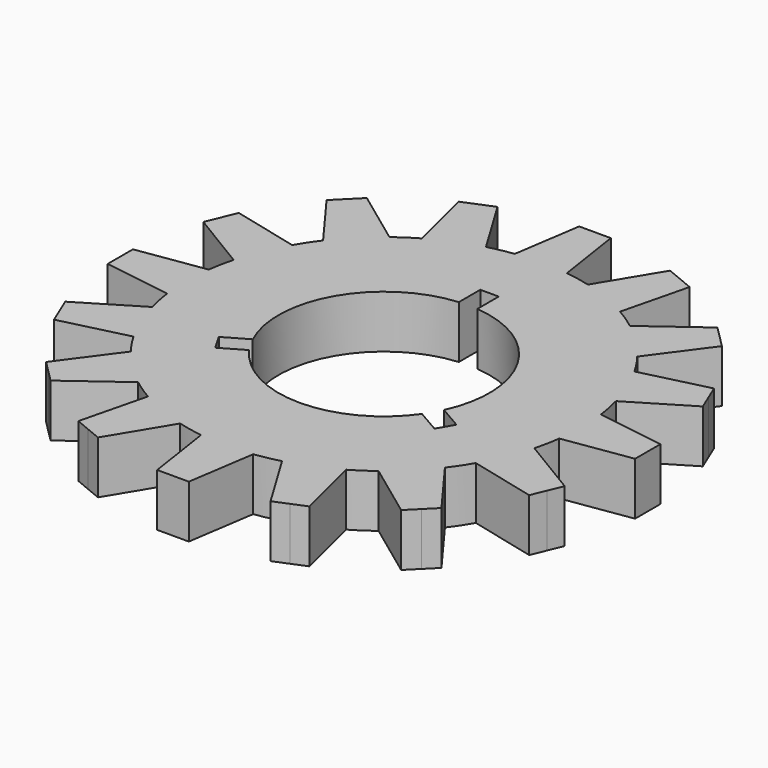
from build123d import *

# Parameters (mm, degrees)
F1_DEPTH = 2.54


with BuildPart() as f1:
    # F0 (on Top) → F1 (new body)
    with BuildSketch(Plane.XY):
        with BuildLine():
            Line((-9.5190714883, 8.4414407538), (-7.564357968, 5.788446556))
            ThreePointArc((-7.564357968, 5.788446556), (-7.9197480572, 5.2918064695), (-8.242581769, 4.7734129071))
            Line((-8.242581769, 4.7734129071), (-11.4416652874, 5.5640757948))
            Line((-11.4416652874, 5.5640757948), (-11.7332700629, 4.860079591))
            Line((-11.7332700629, 4.860079591), (-12.0248748384, 4.1560833873))
            Line((-12.0248748384, 4.1560833873), (-9.2036980994, 2.4530728273))
            ThreePointArc((-9.2036980994, 2.4530728273), (-9.3419797958, 1.8582353172), (-9.4418586268, 1.2557590022))
            Line((-9.4418586268, 1.2557590022), (-12.7, 0.762))
            Line((-12.7, 0.762), (-12.7, 0))
            Line((-12.7, 0), (-12.7, -0.762))
            Line((-12.7, -0.762), (-9.4418586268, -1.2557590022))
            ThreePointArc((-9.4418586268, -1.2557590022), (-9.3419797958, -1.8582353172), (-9.2036980994, -2.4530728273))
            Line((-9.2036980994, -2.4530728273), (-12.0248748384, -4.1560833873))
            Line((-12.0248748384, -4.1560833873), (-11.7332700629, -4.860079591))
            Line((-11.7332700629, -4.860079591), (-11.4416652874, -5.5640757948))
            Line((-11.4416652874, -5.5640757948), (-8.242581769, -4.7734129071))
            ThreePointArc((-8.242581769, -4.7734129071), (-7.9197480572, -5.2918064695), (-7.564357968, -5.788446556))
            Line((-7.564357968, -5.788446556), (-9.5190714883, -8.4414407538))
            Line((-9.5190714883, -8.4414407538), (-8.9802561211, -8.9802561211))
            Line((-8.9802561211, -8.9802561211), (-8.4414407538, -9.5190714883))
            Line((-8.4414407538, -9.5190714883), (-5.788446556, -7.564357968))
            ThreePointArc((-5.788446556, -7.564357968), (-5.2918064695, -7.9197480572), (-4.7734129071, -8.242581769))
            Line((-4.7734129071, -8.242581769), (-5.5640757948, -11.4416652874))
            Line((-5.5640757948, -11.4416652874), (-4.860079591, -11.7332700629))
            Line((-4.860079591, -11.7332700629), (-4.1560833873, -12.0248748384))
            Line((-4.1560833873, -12.0248748384), (-2.4530728273, -9.2036980994))
            ThreePointArc((-2.4530728273, -9.2036980994), (-1.8582353172, -9.3419797958), (-1.2557590022, -9.4418586268))
            Line((-1.2557590022, -9.4418586268), (-0.762, -12.7))
            Line((-0.762, -12.7), (0, -12.7))
            Line((0, -12.7), (0.762, -12.7))
            Line((0.762, -12.7), (1.2557590022, -9.4418586268))
            ThreePointArc((1.2557590022, -9.4418586268), (1.8582353172, -9.3419797958), (2.4530728273, -9.2036980994))
            Line((2.4530728273, -9.2036980994), (4.1560833873, -12.0248748384))
            Line((4.1560833873, -12.0248748384), (4.860079591, -11.7332700629))
            Line((4.860079591, -11.7332700629), (5.5640757948, -11.4416652874))
            Line((5.5640757948, -11.4416652874), (4.7734129071, -8.242581769))
            ThreePointArc((4.7734129071, -8.242581769), (5.2918064695, -7.9197480572), (5.788446556, -7.564357968))
            Line((5.788446556, -7.564357968), (8.4414407538, -9.5190714883))
            Line((8.4414407538, -9.5190714883), (8.9802561211, -8.9802561211))
            Line((8.9802561211, -8.9802561211), (9.5190714883, -8.4414407538))
            Line((9.5190714883, -8.4414407538), (7.564357968, -5.788446556))
            ThreePointArc((7.564357968, -5.788446556), (7.9197480572, -5.2918064695), (8.242581769, -4.7734129071))
            Line((8.242581769, -4.7734129071), (11.4416652874, -5.5640757948))
            Line((11.4416652874, -5.5640757948), (11.7332700629, -4.860079591))
            Line((11.7332700629, -4.860079591), (12.0248748384, -4.1560833873))
            Line((12.0248748384, -4.1560833873), (9.2036980994, -2.4530728273))
            ThreePointArc((9.2036980994, -2.4530728273), (9.3419797958, -1.8582353172), (9.4418586268, -1.2557590022))
            Line((9.4418586268, -1.2557590022), (12.7, -0.762))
            Line((12.7, -0.762), (12.7, 0))
            Line((12.7, 0), (12.7, 0.762))
            Line((12.7, 0.762), (9.4418586268, 1.2557590022))
            ThreePointArc((9.4418586268, 1.2557590022), (9.3419797958, 1.8582353172), (9.2036980994, 2.4530728273))
            Line((9.2036980994, 2.4530728273), (12.0248748384, 4.1560833873))
            Line((12.0248748384, 4.1560833873), (11.7332700629, 4.860079591))
            Line((11.7332700629, 4.860079591), (11.4416652874, 5.5640757948))
            Line((11.4416652874, 5.5640757948), (8.242581769, 4.7734129071))
            ThreePointArc((8.242581769, 4.7734129071), (7.9197480572, 5.2918064695), (7.564357968, 5.788446556))
            Line((7.564357968, 5.788446556), (9.5190714883, 8.4414407538))
            Line((9.5190714883, 8.4414407538), (8.9802561211, 8.9802561211))
            Line((8.9802561211, 8.9802561211), (8.4414407538, 9.5190714883))
            Line((8.4414407538, 9.5190714883), (5.788446556, 7.564357968))
            ThreePointArc((5.788446556, 7.564357968), (5.2918064695, 7.9197480572), (4.7734129071, 8.242581769))
            Line((4.7734129071, 8.242581769), (5.5640757948, 11.4416652874))
            Line((5.5640757948, 11.4416652874), (4.860079591, 11.7332700629))
            Line((4.860079591, 11.7332700629), (4.1560833873, 12.0248748384))
            Line((4.1560833873, 12.0248748384), (2.4530728273, 9.2036980994))
            ThreePointArc((2.4530728273, 9.2036980994), (1.8582353172, 9.3419797958), (1.2557590022, 9.4418586268))
            Line((1.2557590022, 9.4418586268), (0.762, 12.7))
            Line((0.762, 12.7), (0, 12.7))
            Line((0, 12.7), (-0.762, 12.7))
            Line((-0.762, 12.7), (-1.2557590022, 9.4418586268))
            ThreePointArc((-1.2557590022, 9.4418586268), (-1.8582353172, 9.3419797958), (-2.4530728273, 9.2036980994))
            Line((-2.4530728273, 9.2036980994), (-4.1560833873, 12.0248748384))
            Line((-4.1560833873, 12.0248748384), (-4.860079591, 11.7332700629))
            Line((-4.860079591, 11.7332700629), (-5.5640757948, 11.4416652874))
            Line((-5.5640757948, 11.4416652874), (-4.7734129071, 8.242581769))
            ThreePointArc((-4.7734129071, 8.242581769), (-5.2918064695, 7.9197480572), (-5.788446556, 7.564357968))
            Line((-5.788446556, 7.564357968), (-8.4414407538, 9.5190714883))
            Line((-8.4414407538, 9.5190714883), (-8.9802561211, 8.9802561211))
            Line((-8.9802561211, 8.9802561211), (-9.5190714883, 8.4414407538))
        make_face()
        with BuildLine():
            ThreePointArc((-4.6047852038, -2.1453095877), (-4.3994090512, 2.54), (-0.4445, 5.0605157593))
            Line((-0.4445, 5.0605157593), (-0.4445, 6.35))
            Line((-0.4445, 6.35), (0, 6.35))
            Line((0, 6.35), (0.4445, 6.35))
            Line((0.4445, 6.35), (0.4445, 5.0605157593))
            ThreePointArc((0.4445, 5.0605157593), (4.3994090512, 2.54), (4.6047852038, -2.1453095877))
            Line((4.6047852038, -2.1453095877), (5.721511314, -2.790051708))
            Line((5.721511314, -2.790051708), (5.277011314, -3.559948292))
            Line((5.277011314, -3.559948292), (4.1602852038, -2.9152061716))
            ThreePointArc((4.1602852038, -2.9152061716), (0, -5.08), (-4.1602852038, -2.9152061716))
            Line((-4.1602852038, -2.9152061716), (-5.277011314, -3.559948292))
            Line((-5.277011314, -3.559948292), (-5.721511314, -2.790051708))
            Line((-5.721511314, -2.790051708), (-4.6047852038, -2.1453095877))
        make_face(mode=Mode.SUBTRACT)
    extrude(amount=F1_DEPTH)


solid = f1.part
